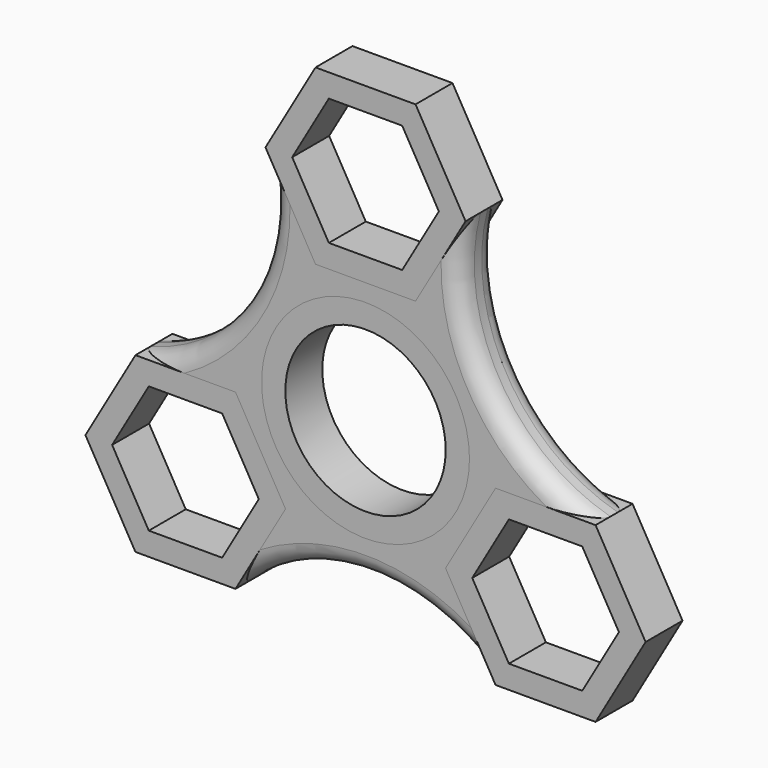
from build123d import *

# Parameters (mm, degrees)
F1_R     = 14.2875
F2_DEPTH = 6.35
F0_R     = 14.2875
F0_R_2   = 11.0236
F3_R     = 2.54


with BuildPart() as f2:
    # F1 (on Front) → F2 (new body)
    with BuildSketch(Plane.XZ):
        with BuildLine():
            Line((17.8725992706, -2.38125), (24.7466759131, -2.38125))
            Line((24.7466759131, -2.38125), (31.6207525557, -2.38125))
            ThreePointArc((31.6207525557, -2.38125), (16.3174315441, 9.4208734945), (13.7481532851, 28.575))
            Line((13.7481532851, 28.575), (10.3111149612, 22.6218749955))
            Line((10.3111149612, 22.6218749955), (6.8740766425, 16.66875))
            Line((6.8740766425, 16.66875), (0, 16.66875))
            Line((0, 16.66875), (-6.8740766425, 16.66875))
            Line((-6.8740766425, 16.66875), (-10.3111149612, 22.6218749955))
            Line((-10.3111149612, 22.6218749955), (-13.7481532851, 28.575))
            ThreePointArc((-13.7481532851, 28.575), (-16.3174315441, 9.4208734945), (-31.6207525557, -2.38125))
            Line((-31.6207525557, -2.38125), (-24.7466759131, -2.38125))
            Line((-24.7466759131, -2.38125), (-17.8725992706, -2.38125))
            Line((-17.8725992706, -2.38125), (-14.4355609503, -8.3343749983))
            Line((-14.4355609503, -8.3343749983), (-10.9985226281, -14.2875))
            Line((-10.9985226281, -14.2875), (-14.4355610462, -20.2406251678))
            Line((-14.4355610462, -20.2406251678), (-17.8725992706, -26.19375))
            ThreePointArc((-17.8725992706, -26.19375), (0, -18.8417469889), (17.8725992706, -26.19375))
            Line((17.8725992706, -26.19375), (14.4355609031, -20.2406249198))
            Line((14.4355609031, -20.2406249198), (10.9985226281, -14.2875))
            Line((10.9985226281, -14.2875), (14.4355609519, -8.3343749955))
            Line((14.4355609519, -8.3343749955), (17.8725992706, -2.38125))
        make_face()
        Circle(F1_R, mode=Mode.SUBTRACT)
    extrude(amount=F2_DEPTH)

    # F3
    f3_edges = [f2.edges().sort_by_distance(p)[0] for p in [
        (16.317432, -6.35, 9.420873),
        (0, -6.35, -18.841747),
        (0, 0, -18.841747),
        (-16.317432, 0, 9.420873),
        (-16.317432, -6.35, 9.420873),
        (16.317432, 0, 9.420873),
    ]]
    fillet(f3_edges, radius=F3_R)


with BuildPart() as f2b:
    # F0 (on Front) → F2, piece 2 (new body)
    with BuildSketch(Plane.XZ):
        Circle(F0_R)
        Circle(F0_R_2, mode=Mode.SUBTRACT)
    extrude(amount=F2_DEPTH)


with BuildPart() as f2c:
    # F0 (on Front) → F2, piece 3 (new body)
    with BuildSketch(Plane.XZ):
        Polygon((-10.9985226281, -14.2875), (-17.8725992706, -2.38125), (-31.6207525557, -2.38125), (-38.4948291982, -14.2875), (-31.6207525557, -26.19375), (-17.8725992706, -26.19375), align=None)
        Polygon((-14.6646968374, -14.2875), (-19.7056863753, -23.01875), (-29.787665451, -23.01875), (-34.8286549889, -14.2875), (-29.787665451, -5.55625), (-19.7056863753, -5.55625), align=None, mode=Mode.SUBTRACT)
    extrude(amount=F2_DEPTH)


with BuildPart() as f2d:
    # F0 (on Front) → F2, piece 4 (new body)
    with BuildSketch(Plane.XZ):
        Polygon((6.8740766425, 40.48125), (-6.8740766425, 40.48125), (-13.7481532851, 28.575), (-6.8740766425, 16.66875), (6.8740766425, 16.66875), (13.7481532851, 28.575), align=None)
        Polygon((10.0819790757, 28.575), (5.0409895379, 19.84375), (-5.0409895379, 19.84375), (-10.0819790757, 28.575), (-5.0409895379, 37.30625), (5.0409895379, 37.30625), align=None, mode=Mode.SUBTRACT)
    extrude(amount=F2_DEPTH)


with BuildPart() as f2e:
    # F0 (on Front) → F2, piece 5 (new body)
    with BuildSketch(Plane.XZ):
        Polygon((17.8725992706, -2.38125), (10.9985226281, -14.2875), (17.8725992706, -26.19375), (31.6207525557, -26.19375), (38.4948291982, -14.2875), (31.6207525557, -2.38125), align=None)
        Polygon((19.7056863753, -5.55625), (29.787665451, -5.55625), (34.8286549889, -14.2875), (29.787665451, -23.01875), (19.7056863753, -23.01875), (14.6646968374, -14.2875), align=None, mode=Mode.SUBTRACT)
    extrude(amount=F2_DEPTH)


solid = Compound([f2.part, f2b.part, f2c.part, f2d.part, f2e.part])
